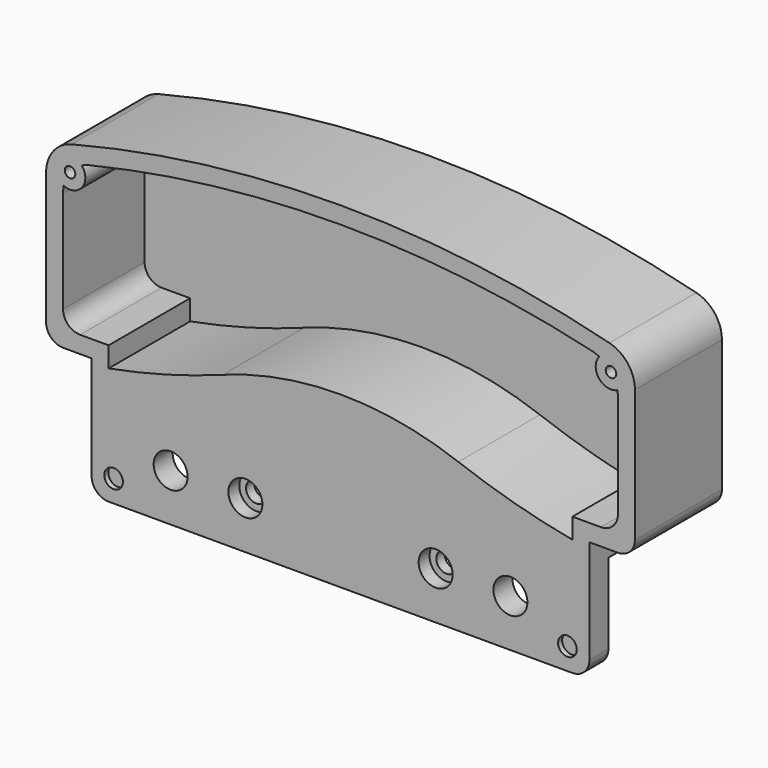
from build123d import *

# Parameters (mm, degrees)
PAD_DEPTH       = 7
PAD012_DEPTH    = 25
SKETCH013_R     = 5
SKETCH013_R_2   = 3
POCKET007_DEPTH = 7.001
POCKET008_DEPTH = 30
SKETCH023_R     = 5
POCKET009_DEPTH = 4
SKETCH024_R     = 4.5
PAD013_DEPTH    = 30
SKETCH028_R     = 2.75
POCKET012_DEPTH = 1.5
SKETCH029_R     = 1.55
POCKET013_DEPTH = 32.001
SKETCH030_R     = 2.5
POCKET014_DEPTH = 3
POCKET015_DEPTH = 25.001


with BuildPart() as part:
    # Sketch011 → Pad (new body)
    with BuildSketch(Plane.XZ):
        with BuildLine():
            Line((73.255, 35.51), (73.255, 5))
            ThreePointArc((68.255, 0), (71.790534, 1.464466), (73.255, 5))
            Line((68.255, 0), (-68.255, 0))
            ThreePointArc((-73.255, 5), (-71.790534, 1.464466), (-68.255, 0))
            Line((-73.255, 5), (-73.255, 35.51))
            Line((-73.255, 35.51), (-81.66, 35.51))
            ThreePointArc((-86.66, 40.51), (-85.195534, 36.974466), (-81.66, 35.51))
            Line((-86.66, 40.51), (-86.66, 79.371844))
            ThreePointArc((-79.132903, 89.061258), (-84.557121, 85.50662), (-86.66, 79.371844))
            ThreePointArc((79.132903, 89.061258), (0, 99), (-79.132903, 89.061258))
            ThreePointArc((86.66, 79.371844), (84.557121, 85.50662), (79.132903, 89.061258))
            Line((86.66, 79.371844), (86.66, 40.51))
            ThreePointArc((81.66, 35.51), (85.195534, 36.974466), (86.66, 40.51))
            Line((81.66, 35.51), (73.255, 35.51))
        make_face()
    extrude(amount=PAD_DEPTH)

    # Sketch012 → Pad012 (join)
    with BuildSketch(Plane.XZ):
        with BuildLine():
            ThreePointArc((79.132903, 89.061258), (0, 99), (-79.132903, 89.061258))
            ThreePointArc((-79.132903, 89.061258), (-84.557121, 85.50662), (-86.66, 79.371844))
            Line((-86.66, 79.371844), (-86.66, 40.51))
            ThreePointArc((-86.66, 40.51), (-85.195534, 36.974466), (-81.66, 35.51))
            Line((-81.66, 35.51), (-73.255, 35.51))
            Line((-73.255, 35.51), (-73.255, 28.649016))
            ThreePointArc((-73.255, 28.649016), (-53.725584, 32.7828), (-34.688969, 38.790593))
            ThreePointArc((34.688969, 38.790593), (0, 45), (-34.688969, 38.790593))
            ThreePointArc((34.688969, 38.790593), (53.725584, 32.7828), (73.255, 28.649016))
            Line((73.255, 35.51), (73.255, 28.649016))
            Line((73.255, 35.51), (81.66, 35.51))
            ThreePointArc((81.66, 35.51), (85.195534, 36.974466), (86.66, 40.51))
            Line((86.66, 40.51), (86.66, 79.371844))
            ThreePointArc((86.66, 79.371844), (84.557121, 85.50662), (79.132903, 89.061258))
        make_face()
    extrude(amount=-PAD012_DEPTH)

    # Sketch013 → Pocket007 (cut, through all)
    with BuildSketch(Plane.XZ):
        with Locations((-50, 14)):
            Circle(SKETCH013_R)
        with Locations((-28, 14)):
            Circle(SKETCH013_R_2)
        with Locations((28, 14)):
            Circle(SKETCH013_R_2)
        with Locations((50, 14)):
            Circle(SKETCH013_R)
    extrude(amount=POCKET007_DEPTH, mode=Mode.SUBTRACT)

    # Sketch015 → Pocket008 (cut)
    with BuildSketch(Plane.XZ.offset(7)):
        with BuildLine():
            Line((81.66, 75.603787), (81.66, 45.51))
            ThreePointArc((76.66, 40.51), (80.195534, 41.974466), (81.66, 45.51))
            Line((76.66, 40.51), (68.255, 40.51))
            Line((68.255, 40.51), (68.255, 34.519539))
            ThreePointArc((34.688969, 43.790593), (51.275394, 38.443308), (68.255, 34.519539))
            ThreePointArc((34.688969, 43.790593), (0, 50), (-34.688969, 43.790593))
            ThreePointArc((-68.255, 34.519539), (-51.275394, 38.443308), (-34.688969, 43.790593))
            Line((-68.255, 40.51), (-68.255, 34.519539))
            Line((-76.66, 40.51), (-68.255, 40.51))
            ThreePointArc((-81.66, 45.51), (-80.195534, 41.974466), (-76.66, 40.51))
            Line((-81.66, 45.51), (-81.66, 75.603787))
            ThreePointArc((-73.971613, 85.332942), (-79.505895, 81.803943), (-81.66, 75.603787))
            ThreePointArc((73.971613, 85.332942), (0, 94), (-73.971613, 85.332942))
            ThreePointArc((81.66, 75.603787), (79.505895, 81.803943), (73.971613, 85.332942))
        make_face()
    extrude(amount=-POCKET008_DEPTH, mode=Mode.SUBTRACT)

    # Sketch023 → Pocket009 (cut)
    with BuildSketch(Plane.XZ.offset(7)):
        with Locations((-28, 14)):
            Circle(SKETCH023_R)
        with Locations((28, 14)):
            Circle(SKETCH023_R)
    extrude(amount=-POCKET009_DEPTH, mode=Mode.SUBTRACT)

    # Sketch024 → Pad013 (join)
    with BuildSketch(Plane.XZ.offset(-23)):
        with Locations((-79.61305, 81.665882)):
            Circle(SKETCH024_R)
        with Locations((79.61305, 81.665882)):
            Circle(SKETCH024_R)
    extrude(amount=PAD013_DEPTH)

    # Sketch028 → Pocket012 (cut)
    with BuildSketch(Plane.XZ.offset(7)):
        with Locations((-66.789089, 6.465911)):
            Circle(SKETCH028_R)
        with Locations((66.789089, 6.465911)):
            Circle(SKETCH028_R)
    extrude(amount=-POCKET012_DEPTH, mode=Mode.SUBTRACT)

    # Sketch029 → Pocket013 (cut, through all)
    with BuildSketch(Plane.XZ.offset(-25)):
        with Locations((-79.61305, 81.665882)):
            Circle(SKETCH029_R)
        with Locations((79.61305, 81.665882)):
            Circle(SKETCH029_R)
    extrude(amount=POCKET013_DEPTH, mode=Mode.SUBTRACT)

    # Sketch030 → Pocket014 (cut)
    with BuildSketch(Plane.XZ.offset(-25)):
        with Locations((-79.61305, 81.665882)):
            Circle(SKETCH030_R)
        with Locations((79.61305, 81.665882)):
            Circle(SKETCH030_R)
    extrude(amount=POCKET014_DEPTH, mode=Mode.SUBTRACT)

    # Sketch031 → Pocket015 (cut, through all)
    with BuildSketch(Plane.XZ):
        with BuildLine():
            ThreePointArc((53.201861, 82.094664), (49.201861, 78.094664), (53.201861, 74.094664))
            Line((53.201861, 74.094664), (63.201861, 74.094664))
            ThreePointArc((63.201861, 74.094664), (67.201861, 78.094664), (63.201861, 82.094664))
            Line((63.201861, 82.094664), (53.201861, 82.094664))
        make_face()
    extrude(amount=-POCKET015_DEPTH, mode=Mode.SUBTRACT)


solid = part.part
